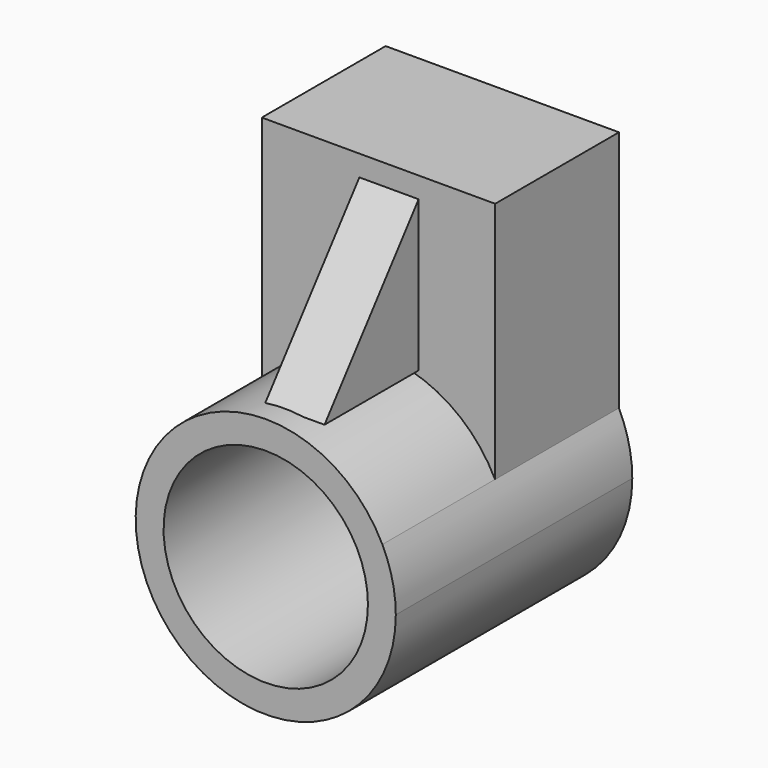
from build123d import *

# Parameters (mm, degrees)
F1_DEPTH = 25.4
F2_DEPTH = 48.514
F4_DEPTH = 19.304
F6_DEPTH = 25.4


with BuildPart() as f1:
    # F0 (on Front) → F1 (new body)
    with BuildSketch(Plane.XZ):
        with BuildLine():
            Line((-19.1385153821, 49.2832697928), (-19.1385153821, 9.4504378209))
            ThreePointArc((-19.1385153821, 9.4504378209), (0, 21.3446374071), (19.1385153821, 9.4504378209))
            Line((19.1385153821, 9.4504378209), (19.1590227187, 9.4504378209))
            Line((19.1590227187, 9.4504378209), (19.1590227187, 49.2832697928))
            Line((19.1590227187, 49.2832697928), (-19.1385153821, 49.2832697928))
        make_face()
    extrude(amount=F1_DEPTH)

    # F0 (on Front) → F2 (join)
    with BuildSketch(Plane.XZ):
        with BuildLine():
            ThreePointArc((19.1385153821, 9.4504378209), (0, 21.3446374071), (-19.1385153821, 9.4504378209))
            Line((-19.1385153821, 9.4504378209), (-13.8539659138, 9.4504378209))
            ThreePointArc((-13.8539659138, 9.4504378209), (0, 16.7703054995), (13.8539659138, 9.4504378209))
            Line((13.8539659138, 9.4504378209), (19.1385153821, 9.4504378209))
        make_face()
        with BuildLine():
            Line((-13.8539659138, 9.4504378209), (-19.1385153821, 9.4504378209))
            ThreePointArc((-19.1385153821, 9.4504378209), (-4.8522610553, -20.7857910287), (21.3446374071, 0))
            ThreePointArc((21.3446374071, 0), (20.7857910287, 4.8522610553), (19.1385153821, 9.4504378209))
            Line((19.1385153821, 9.4504378209), (13.8539659138, 9.4504378209))
            ThreePointArc((13.8539659138, 9.4504378209), (16.0246433237, 4.9450938208), (16.7703054995, 0))
            ThreePointArc((16.7703054995, 0), (-4.9450938208, -16.0246433237), (-13.8539659138, 9.4504378209))
        make_face()
    extrude(amount=F2_DEPTH)

    # F3 (on face) → F4 (join)
    with BuildSketch(Plane.XZ.offset(25.4)):
        with BuildLine():
            Line((-3.1239633907, 45.8474755287), (-3.1239633907, 21.1147909952))
            ThreePointArc((-3.1239633907, 21.1147909952), (0, 21.3446374071), (3.1239633907, 21.1147909952))
            Line((3.1239633907, 21.1147909952), (6.5980968066, 21.1147909952))
            Line((6.5980968066, 21.1147909952), (6.5980968066, 45.8474755287))
            Line((6.5980968066, 45.8474755287), (-3.1239633907, 45.8474755287))
        make_face()
    extrude(amount=F4_DEPTH)

    # F5 (on face) → F6 (cut)
    with BuildSketch(Plane.YZ.offset(6.5980968066)):
        Polygon((-44.704, 45.8474755287), (-44.704, 21.1147909952), (-25.4, 45.8474755287), align=None)
    extrude(amount=-F6_DEPTH, mode=Mode.SUBTRACT)


solid = f1.part
